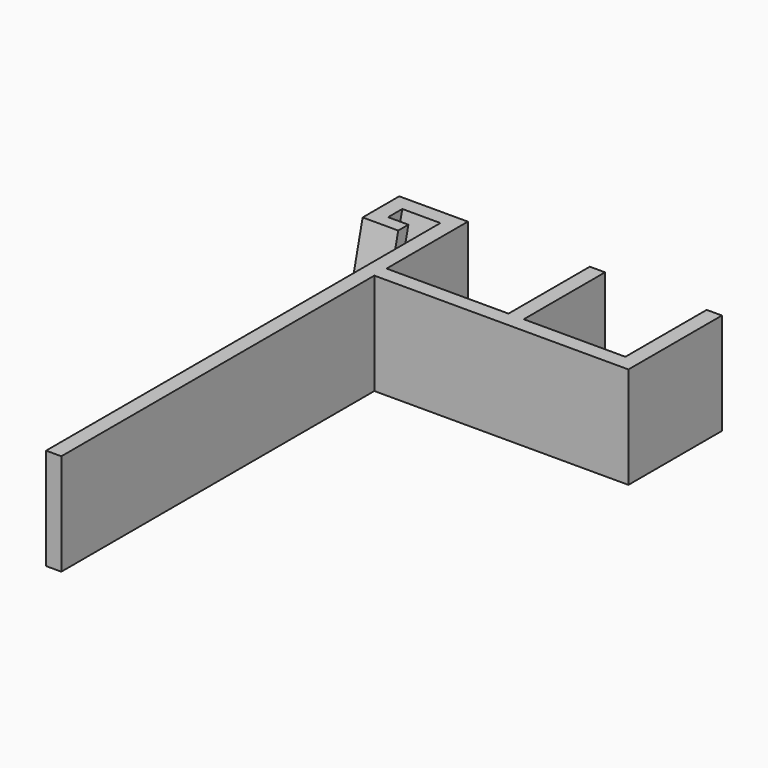
from build123d import *

# Parameters (mm, degrees)
F1_DEPTH = 20


with BuildPart() as f1:
    # F0 (on Top) → F1 (new body)
    with BuildSketch(Plane.XY):
        Polygon((1.5, 50), (-1.5, 50), (-1.5, 47), (-1.5, -50), (1.5, -50), (1.5, 27), (51.5, 27), (51.5, 30), (51.5, 50), (48.5, 50), (48.5, 30), (28.5, 30), (28.5, 50), (25.5, 50), (25.5, 30), (1.5, 30), align=None)
    extrude(amount=-F1_DEPTH)

    # F3: sweep along a path in F2
    with BuildLine(Plane(origin=(-1.5, 0, 0), x_dir=(0, -1, 0), z_dir=(-1, 0, 0))) as f3_path:
        Line((-48.5, 0), (-43.5, -20))
    # F0 (on Top) → F3 (sweep)
    with BuildSketch(Plane.XY):
        Polygon((-1.5, 47), (-1.5, 50), (-12, 50), (-12, 47), (-12, 41), (-9, 41), (-5, 41), (-5, 43.5), (-9, 43.5), (-9, 47), align=None)
    sweep(path=f3_path.line)


solid = f1.part
